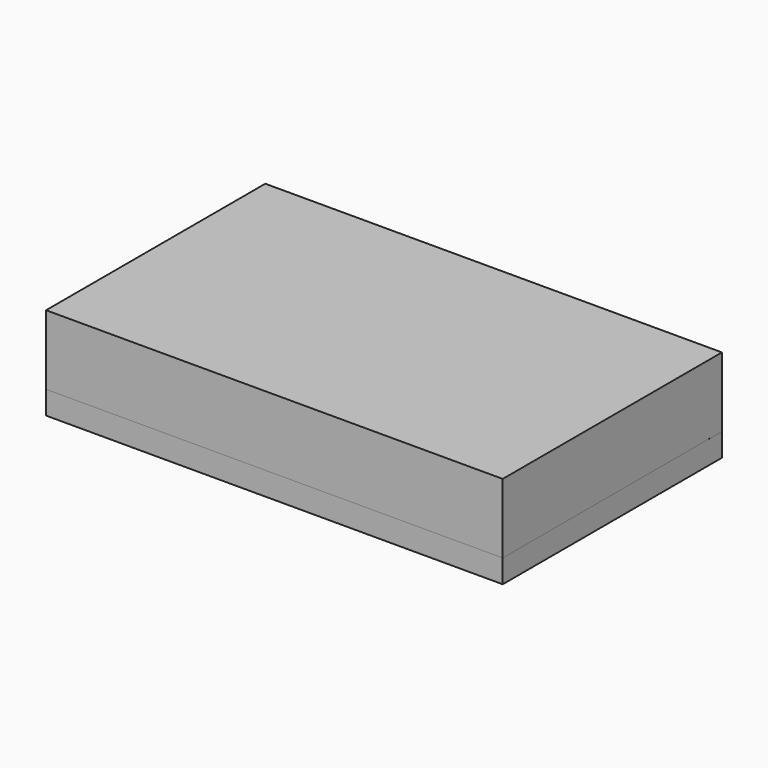
from build123d import *

# Parameters (mm, degrees)
F0_W      = 125
F0_H      = 75
F1_DEPTH  = 6.35
F3_W      = 115.3970956802
F3_H      = 65.8323019743
F4_DEPTH  = 1.5748
F5_W      = 125
F5_H      = 75
F6_DEPTH  = 19.05
F7_W      = 24.196354863
F7_H      = 59.76
F8_DEPTH  = 6.35
F9_W      = 35.880353672
F9_H      = 71.443998809
F10_DEPTH = 1.27
F11_DEPTH = 1.27
F12_T     = -1.27
F13_R     = 1.9796250157
F14_DEPTH = 3.81


with BuildPart() as f1:
    # F0 (on Top) → F1 (new body)
    with BuildSketch(Plane.XY):
        Rectangle(F0_W, F0_H)
    extrude(amount=-F1_DEPTH)

    # F7 (on face) → F8 (cut, through all)
    with BuildSketch(Plane(origin=(0, 0, -6.35), x_dir=(1, 0, 0), z_dir=(0, 0, -1))):
        with Locations((42.7818225685, 0)):
            Rectangle(F7_W, F7_H)
    extrude(amount=-F8_DEPTH, mode=Mode.SUBTRACT)

    # F9 (on face) → F10 (cut)
    with BuildSketch(Plane(origin=(0, 0, -6.35), x_dir=(1, 0, 0), z_dir=(0, 0, -1))):
        with Locations((42.7818225685, 0)):
            Rectangle(F9_W, F9_H)
    extrude(amount=-F10_DEPTH, mode=Mode.SUBTRACT)

    # F13 (on face) → F14 (cut)
    with BuildSketch(Plane.XY):
        with Locations((58.9032660389, 33.9885211441)):
            Circle(F13_R)
        with Locations((58.9032660389, -33.5741745865)):
            Circle(F13_R)
        with Locations((-59.2283262906, -33.5741745865)):
            Circle(F13_R)
        with Locations((-59.2283262906, 33.9885211441)):
            Circle(F13_R)
    extrude(amount=-F14_DEPTH, mode=Mode.SUBTRACT)


with BuildPart() as f4:
    # F3 (on offset) → F4 (new body)
    with BuildSketch(Plane.XY.offset(3.175)):
        Rectangle(F3_W, F3_H)
    extrude(amount=F4_DEPTH)


with BuildPart() as f6:
    # F5 (on Top) → F6 (new body)
    with BuildSketch(Plane.XY):
        Rectangle(F5_W, F5_H)
    extrude(amount=F6_DEPTH)

    # F12
    f12_openings = [f6.faces().sort_by_distance(p)[0] for p in [
        (0, 0, 0),
    ]]
    offset(amount=F12_T, openings=f12_openings)


with BuildPart() as f11:
    # F9 (on face) → F11 (new body)
    with BuildSketch(Plane(origin=(0, 0, -6.35), x_dir=(1, 0, 0), z_dir=(0, 0, -1))):
        with Locations((42.7818225685, 0)):
            Rectangle(F9_W, F9_H)
    extrude(amount=-F11_DEPTH)


solid = Compound([f1.part, f4.part, f6.part, f11.part])
